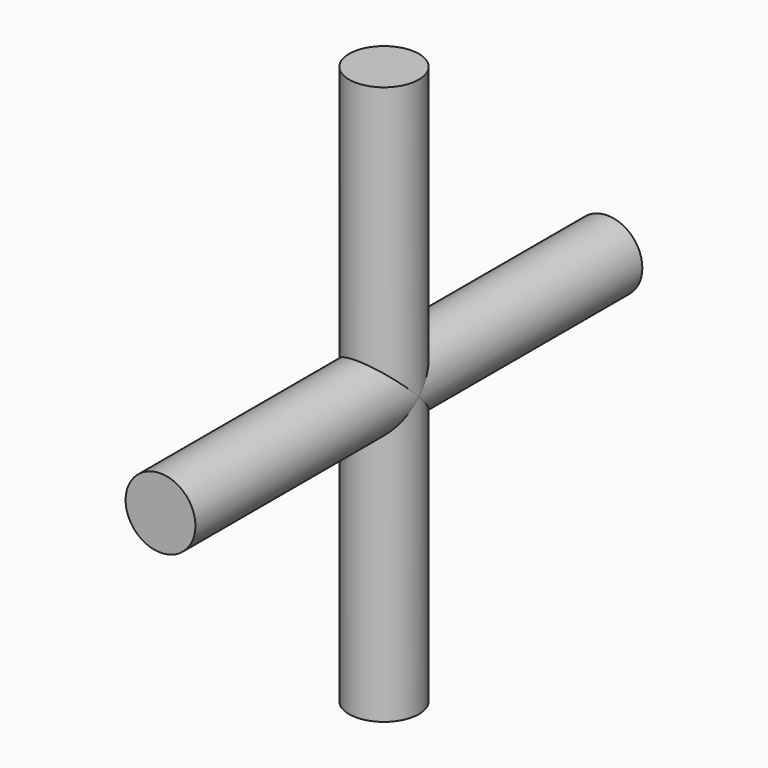
from build123d import *

# Parameters (mm, degrees)
F0_R     = 1.5875
F1_DEPTH = 25.4
F2_R     = 1.5875
F3_DEPTH = 12.7


with BuildPart() as f1:
    # F0 (on Top) → F1 (new body)
    with BuildSketch(Plane.XY):
        Circle(F0_R)
    extrude(amount=F1_DEPTH)

    # F2 (on Front) → F3 (join, symmetric)
    with BuildSketch(Plane.XZ):
        with Locations((0, 12.7)):
            Circle(F2_R)
    extrude(amount=F3_DEPTH, both=True)


solid = f1.part
